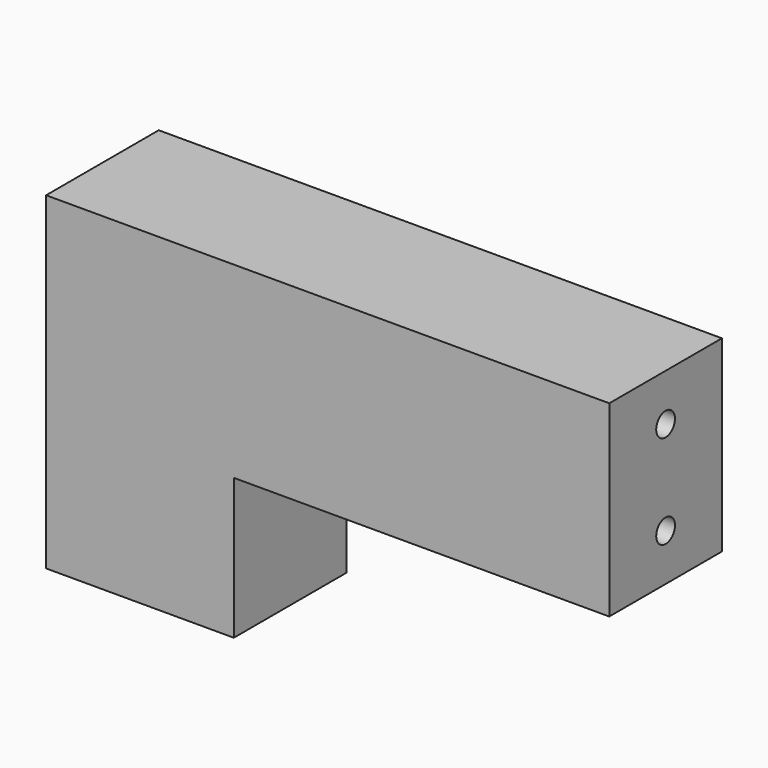
from build123d import *

# Parameters (mm, degrees)
F1_DEPTH = 38.1
F3_D     = 6.35
F3_DEPTH = 12.7
F3_TIP   = 1.9077324654


with BuildPart() as f1:
    # F0 (on Front) → F1 (new body)
    with BuildSketch(Plane.XZ):
        Polygon((0, -50.8), (0, 0), (-152.4, 0), (-152.4, -88.9), (-101.6, -88.9), (-101.6, -50.8), align=None)
    extrude(amount=F1_DEPTH)

    # F3
    with Locations(Plane.YZ):
        with Locations((-19.05, -12.7), (-19.05, -38.1)):
            Hole(F3_D / 2, depth=F3_DEPTH)
            with Locations((0, 0, -(F3_DEPTH + F3_TIP / 2))):  # 118° drill point
                Cone(0, F3_D / 2, F3_TIP, mode=Mode.SUBTRACT)


solid = f1.part
